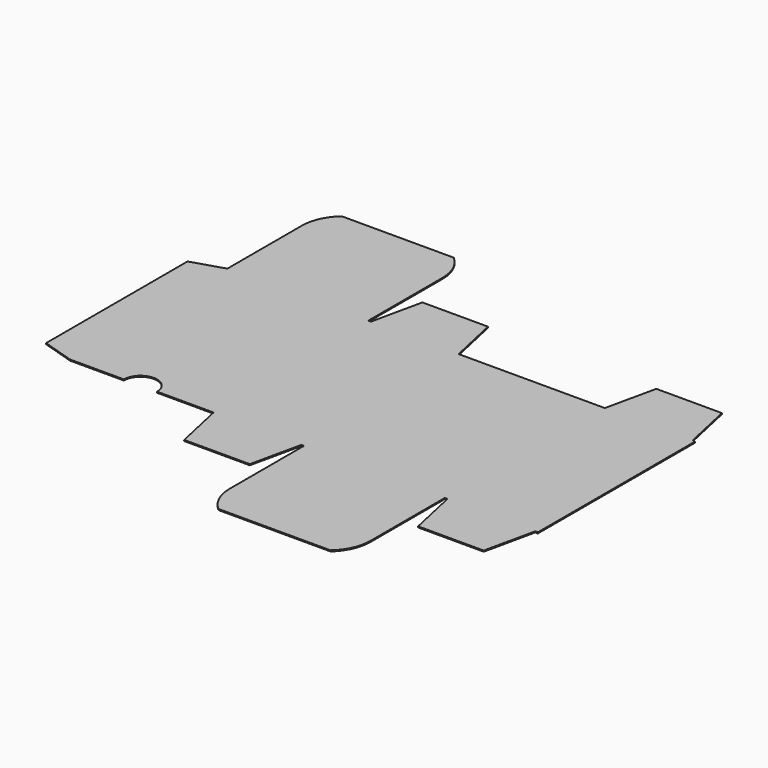
from build123d import *

# Parameters (mm, degrees)
F1_DEPTH = 0.508


with BuildPart() as f1:
    # F0 (on Top) → F1 (new body)
    with BuildSketch(Plane.XY):
        with BuildLine():
            Line((-15.24, 4.7625), (0, 0))
            Line((0, 0), (25.7175, 0))
            ThreePointArc((25.7175, 0), (33.655, 7.9375), (41.5925, 0))
            Line((41.5925, 0), (67.31, 0))
            Line((67.31, 0), (68.58, 0))
            Line((68.58, 0), (73.858835, -24.13))
            Line((73.858835, -24.13), (105.211165, -24.13))
            Line((105.211165, -24.13), (110.49, 0))
            Line((110.49, 0), (111.76, 0))
            Line((111.76, 0), (111.76, -44.45))
            ThreePointArc((111.76, -44.45), (113.559583, -52.810417), (118.639583, -59.69))
            Line((118.639583, -59.69), (172.190417, -59.69))
            ThreePointArc((172.190417, -59.69), (177.270417, -52.810417), (179.07, -44.45))
            Line((179.07, -44.45), (179.07, 0))
            Line((179.07, 0), (180.34, 0))
            Line((180.34, 0), (185.618835, -24.13))
            Line((185.618835, -24.13), (216.971165, -24.13))
            Line((216.971165, -24.13), (222.25, 0))
            Line((222.25, 0), (223.52, 0))
            Line((223.52, 0), (223.52, 93.98))
            Line((223.52, 93.98), (222.25, 93.98))
            Line((222.25, 93.98), (216.971165, 118.11))
            Line((216.971165, 118.11), (185.618835, 118.11))
            Line((185.618835, 118.11), (180.34, 93.98))
            Line((180.34, 93.98), (179.07, 93.98))
            Line((179.07, 93.98), (111.76, 93.98))
            Line((111.76, 93.98), (110.49, 93.98))
            Line((110.49, 93.98), (105.211165, 118.11))
            Line((105.211165, 118.11), (73.858835, 118.11))
            Line((73.858835, 118.11), (68.58, 93.98))
            Line((68.58, 93.98), (67.31, 93.98))
            Line((67.31, 93.98), (67.31, 138.43))
            ThreePointArc((67.31, 138.43), (65.510417, 146.790417), (60.430417, 153.67))
            Line((60.430417, 153.67), (33.655, 153.67))
            Line((33.655, 153.67), (6.879583, 153.67))
            ThreePointArc((6.879583, 153.67), (1.799583, 146.790417), (0, 138.43))
            Line((0, 138.43), (0, 93.98))
            Line((0, 93.98), (-15.24, 89.2175))
            Line((-15.24, 89.2175), (-15.24, 46.99))
            Line((-15.24, 46.99), (-15.24, 4.7625))
        make_face()
    extrude(amount=F1_DEPTH)


solid = f1.part
